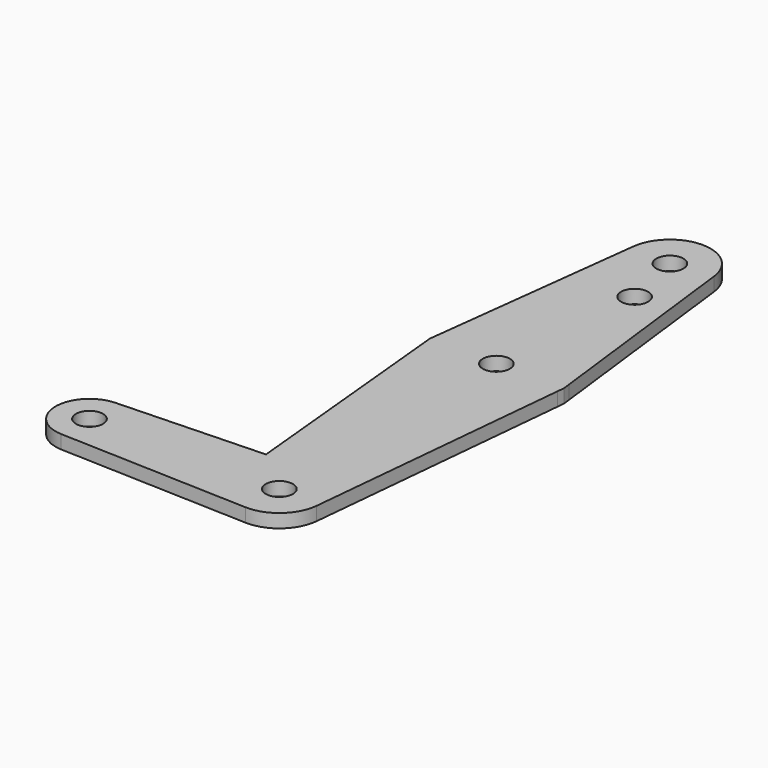
from build123d import *

# Parameters (mm, degrees)
F0_R     = 3.175
F1_DEPTH = 3.175


with BuildPart() as f1:
    # F0 (on Top) → F1 (new body)
    with BuildSketch(Plane.XY):
        with BuildLine():
            ThreePointArc((-44.7334821429, -7.9324362036), (-38.9384772185, -5.7120069047), (-36.5125, 0))
            ThreePointArc((-36.5125, 0), (-38.9384772185, 5.7120069047), (-44.7334821429, 7.9324362036))
            ThreePointArc((-44.7334821429, 7.9324362036), (-52.3875, 0), (-44.7334821429, -7.9324362036))
        make_face()
        with Locations((-44.45, 0)):
            Circle(F0_R, mode=Mode.SUBTRACT)
        with BuildLine():
            ThreePointArc((-44.7334821429, 7.9324362036), (-38.9384772185, 5.7120069047), (-36.5125, 0))
            ThreePointArc((-36.5125, 0), (-38.9384772185, -5.7120069047), (-44.7334821429, -7.9324362036))
            Line((-44.7334821429, -7.9324362036), (-0.3401785714, -9.5189234444))
            ThreePointArc((-0.3401785714, -9.5189234444), (-9.525, 0), (-0.3401785714, 9.5189234444))
            ThreePointArc((-0.3401785714, 9.5189234444), (6.6138273378, 6.8544082857), (9.525, 0))
            ThreePointArc((9.525, 0), (9.5139954445, -0.4577288296), (9.481007206, -0.9144))
            Line((9.481007206, -0.9144), (15.5488518158, 62.0003839793))
            ThreePointArc((15.5488518158, 62.0003839793), (-2.48e-07, 47.879), (-15.5488518634, 62.0003844731))
            Line((-15.5488518634, 62.0003844731), (-10.4524001899, 9.157542126))
            Line((-10.4524001899, 9.157542126), (-44.7334821429, 7.9324362036))
        make_face()
        with BuildLine():
            ThreePointArc((-0.3401785714, 9.5189234444), (-9.525, 0), (-0.3401785714, -9.5189234444))
            ThreePointArc((-0.3401785714, -9.5189234444), (6.2767940031, -7.1643200684), (9.481007206, -0.9144))
            ThreePointArc((9.481007206, -0.9144), (9.5139954445, -0.4577288296), (9.525, 0))
            ThreePointArc((9.525, 0), (6.6138273378, 6.8544082857), (-0.3401785714, 9.5189234444))
        make_face()
        Circle(F0_R, mode=Mode.SUBTRACT)
        with BuildLine():
            Line((-15.7117752414, 63.6896645699), (-15.5488518634, 62.0003844731))
            ThreePointArc((-15.5488518634, 62.0003844731), (-15.6198619695, 63.6885551731), (-15.5081209869, 65.3745197932))
            Line((-15.5081209869, 65.3745197932), (-15.7117752414, 63.6896645699))
        make_face()
        with BuildLine():
            ThreePointArc((-15.5081209869, 65.3745197932), (-15.6198619695, 63.6885551731), (-15.5488518634, 62.0003844731))
            ThreePointArc((-15.5488518634, 62.0003844731), (-2.48e-07, 47.879), (15.5488518158, 62.0003839793))
            ThreePointArc((15.5488518158, 62.0003839793), (15.6029525285, 62.749324709), (15.621, 63.5))
            ThreePointArc((15.621, 63.5), (15.592754719, 64.4389575463), (15.5081210199, 65.37451952))
            ThreePointArc((15.5081210199, 65.37451952), (1.376e-07, 79.121), (-15.5081209869, 65.3745197932))
        make_face()
        with Locations((0, 63.5)):
            Circle(F0_R, mode=Mode.SUBTRACT)
        with BuildLine():
            Line((-9.4561713182, 115.443), (-15.5081209869, 65.3745197932))
            ThreePointArc((-15.5081209869, 65.3745197932), (1.376e-07, 79.121), (15.5081210199, 65.37451952))
            Line((15.5081210199, 65.37451952), (9.4561713182, 115.443))
            ThreePointArc((9.4561713182, 115.443), (9.5077772588, 114.8725352363), (9.525, 114.3))
            ThreePointArc((9.525, 114.3), (-0.5725352363, 104.7922227412), (-9.4561713182, 115.443))
        make_face()
        with Locations((3.175, 100.0125)):
            Circle(F0_R, mode=Mode.SUBTRACT)
        with BuildLine():
            ThreePointArc((15.621, 63.5), (15.6029525285, 62.749324709), (15.5488518158, 62.0003839793))
            Line((15.5488518158, 62.0003839793), (15.7117752414, 63.6896645699))
            Line((15.7117752414, 63.6896645699), (15.5081210199, 65.37451952))
            ThreePointArc((15.5081210199, 65.37451952), (15.592754719, 64.4389575463), (15.621, 63.5))
        make_face()
        with BuildLine():
            ThreePointArc((9.4561713182, 115.443), (0, 123.825), (-9.4561713182, 115.443))
            ThreePointArc((-9.4561713182, 115.443), (-0.5725352363, 104.7922227412), (9.525, 114.3))
            ThreePointArc((9.525, 114.3), (9.5077772588, 114.8725352363), (9.4561713182, 115.443))
        make_face()
        with Locations((0, 114.3)):
            Circle(F0_R, mode=Mode.SUBTRACT)
    extrude(amount=F1_DEPTH)


solid = f1.part
